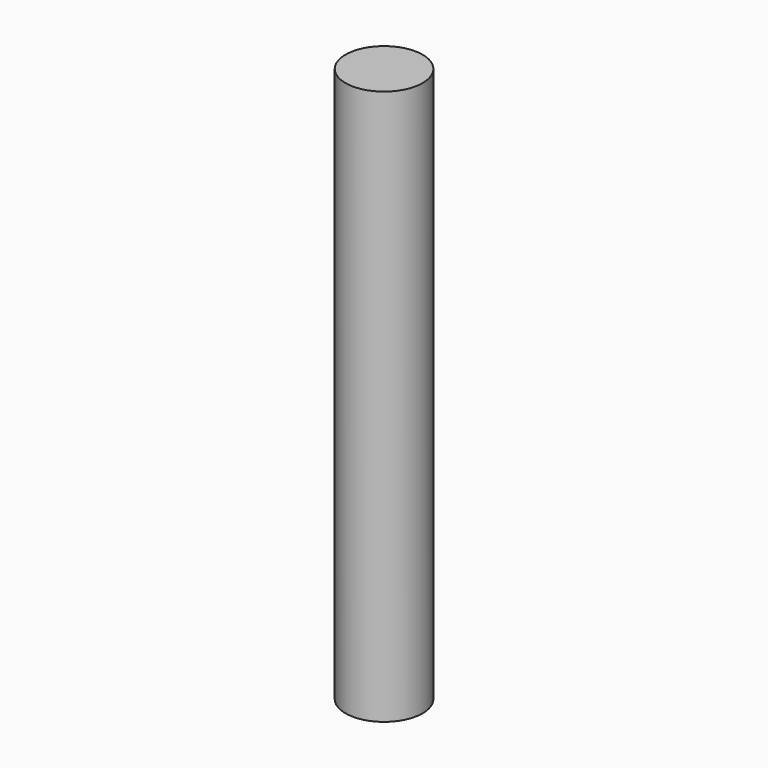
from build123d import *

# Parameters (mm, degrees)
CYLINDER_R     = 1.0414
CYLINDER_DEPTH = 15


with BuildPart() as part:
    # Cylinder → Cylinder (new body)
    with BuildSketch(Plane.XY.offset(-2.5)):
        Circle(CYLINDER_R)
    extrude(amount=CYLINDER_DEPTH)


solid = part.part
